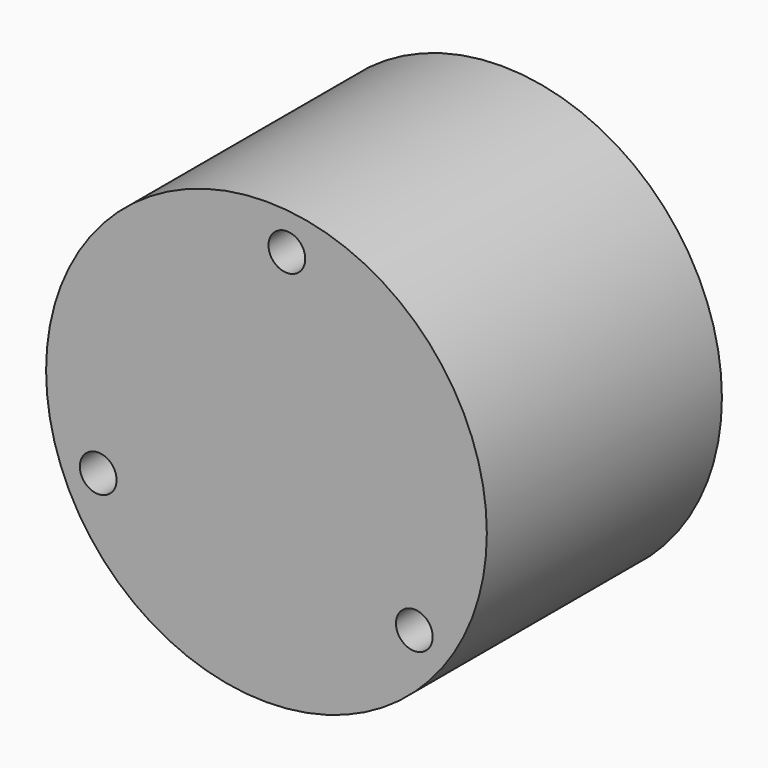
from build123d import *

# Parameters (mm, degrees)
F0_R     = 38.1
F0_R_2   = 3.175
F0_R_3   = 25.4
F1_DEPTH = 25.4
F2_DEPTH = 25.4


with BuildPart() as f1:
    # F0 (on Front) → F1 (new body, symmetric)
    with BuildSketch(Plane.XZ):
        Circle(F0_R)
        with Locations((-29.089851, -12.721755)):
            Circle(F0_R_2, mode=Mode.SUBTRACT)
        with Locations((25.562289, -18.831673)):
            Circle(F0_R_2, mode=Mode.SUBTRACT)
        Circle(F0_R_3, mode=Mode.SUBTRACT)
        with Locations((3.527563, 31.553428)):
            Circle(F0_R_2, mode=Mode.SUBTRACT)
    extrude(amount=F1_DEPTH, both=True)

    # F0 (on Front) → F2 (join, through all)
    with BuildSketch(Plane.XZ):
        Circle(F0_R_3)
    extrude(amount=F2_DEPTH)


solid = f1.part
